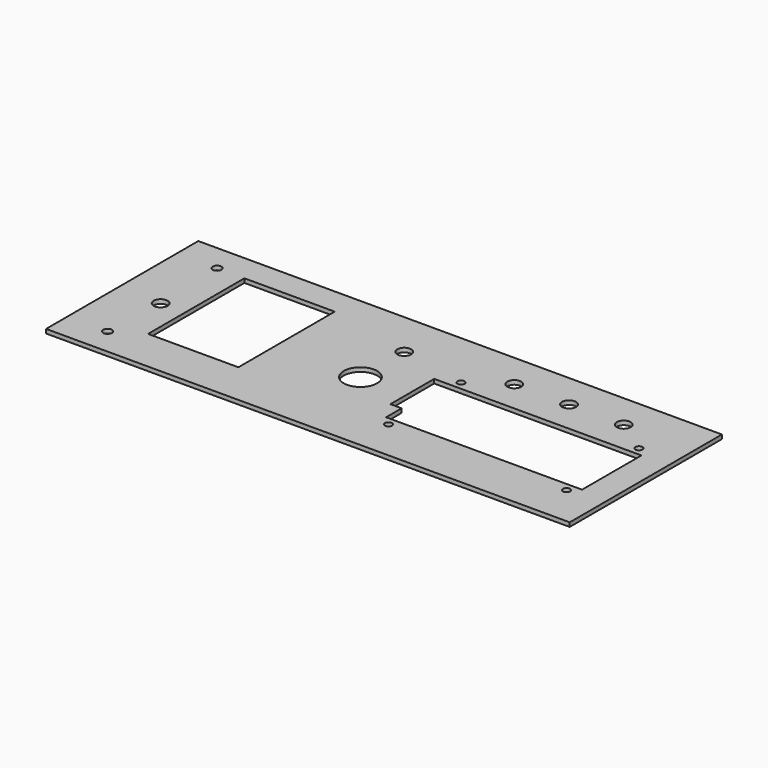
from build123d import *

# Parameters (mm, degrees)
F0_W     = 191.3
F0_H     = 69.5
F0_R     = 1.6
F0_R_2   = 2.55
F0_R_3   = 6.1
F0_R_4   = 1.3
F0_W_2   = 33
F0_H_2   = 44
F1_DEPTH = 1.5


with BuildPart() as f1:
    # F0 (on Top) → F1 (new body)
    with BuildSketch(Plane.XY):
        with Locations((90, 30)):
            Rectangle(F0_W, F0_H)
        with Locations((9, 5)):
            Circle(F0_R, mode=Mode.SUBTRACT)
        with Locations((10, 28)):
            Circle(F0_R_2, mode=Mode.SUBTRACT)
        with Locations((83, 28)):
            Circle(F0_R_3, mode=Mode.SUBTRACT)
        with Locations((107.5, 10.2)):
            Circle(F0_R_4, mode=Mode.SUBTRACT)
        with Locations((172.5, 10.2)):
            Circle(F0_R_4, mode=Mode.SUBTRACT)
        Polygon((175.8, 13.2), (104.2, 13.2), (104.2, 20.3), (100.1, 20.3), (100.1, 40.3), (104.2, 40.3), (175.8, 40.3), align=None, mode=Mode.SUBTRACT)
        with Locations((35.5, 33)):
            Rectangle(F0_W_2, F0_H_2, mode=Mode.SUBTRACT)
        with Locations((9, 55)):
            Circle(F0_R, mode=Mode.SUBTRACT)
        with Locations((83, 48)):
            Circle(F0_R_2, mode=Mode.SUBTRACT)
        with Locations((107.5, 43.3)):
            Circle(F0_R_4, mode=Mode.SUBTRACT)
        with Locations((172.5, 43.3)):
            Circle(F0_R_4, mode=Mode.SUBTRACT)
        with Locations((120, 52)):
            Circle(F0_R_2, mode=Mode.SUBTRACT)
        with Locations((140, 52)):
            Circle(F0_R_2, mode=Mode.SUBTRACT)
        with Locations((160, 52)):
            Circle(F0_R_2, mode=Mode.SUBTRACT)
    extrude(amount=F1_DEPTH)


solid = f1.part
